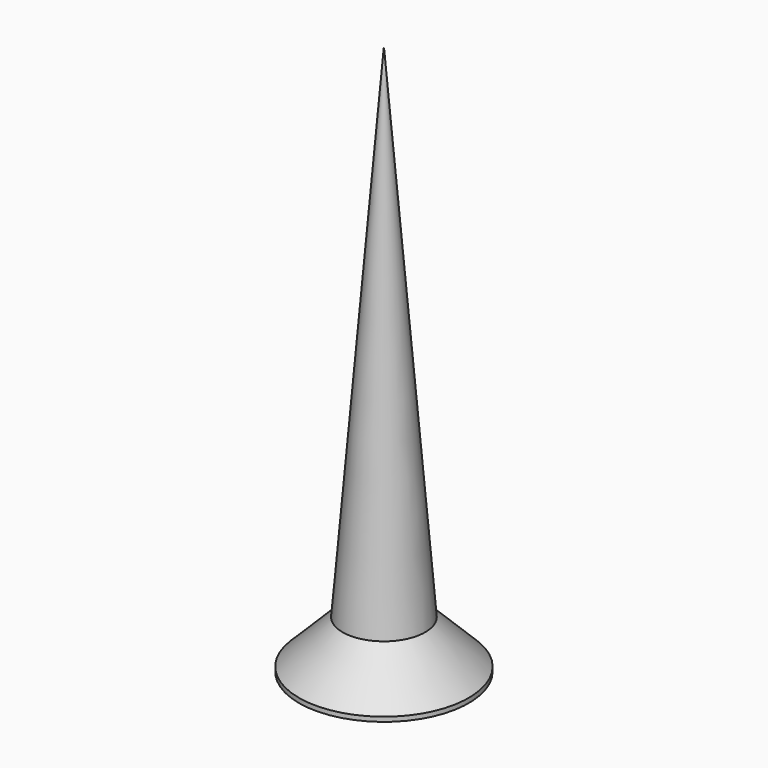
from build123d import *

# Parameters (mm, degrees)
POCKET005_DEPTH         = 0.2
POLARPATTERN005_COUNT   = 2
POLARPATTERN005_ANGLE   = 90
BODY009_PLACEMENT_ANGLE = 180


with BuildPart() as part:
    # Sketch017 → Revolution005 (revolve)
    with BuildSketch(Plane.XZ):
        Polygon((0, 0), (0, -12), (0.9, -1.05), (1.85, -0.1), (1.85, 0), align=None)
    revolve(axis=Axis((0, 0, 0), (0, 0, 1)))

    # Sketch018 → Pocket005 (cut, symmetric)
    with BuildSketch(Plane.XZ):
        Polygon((-1.15, 0), (0, -1.15), (1.15, 0), align=None)
    pocket005 = extrude(amount=POCKET005_DEPTH, both=True, mode=Mode.SUBTRACT)

    # PolarPattern005: Pocket005 ×2 about axis
    polarpattern005_axis = Axis((0, 0, 0), (0, 0, 1))
    for i in range(1, POLARPATTERN005_COUNT):
        add(pocket005.rotate(polarpattern005_axis, i * POLARPATTERN005_ANGLE / (POLARPATTERN005_COUNT - 1)), mode=Mode.SUBTRACT)


with BuildPart() as part_1:
    # Body009 placement: moved
    add(part.part.moved(Location((12, -21, -6.7))).rotate(Axis((12, -21, -6.7), (0, 1, 0)), BODY009_PLACEMENT_ANGLE))


solid = part_1.part
